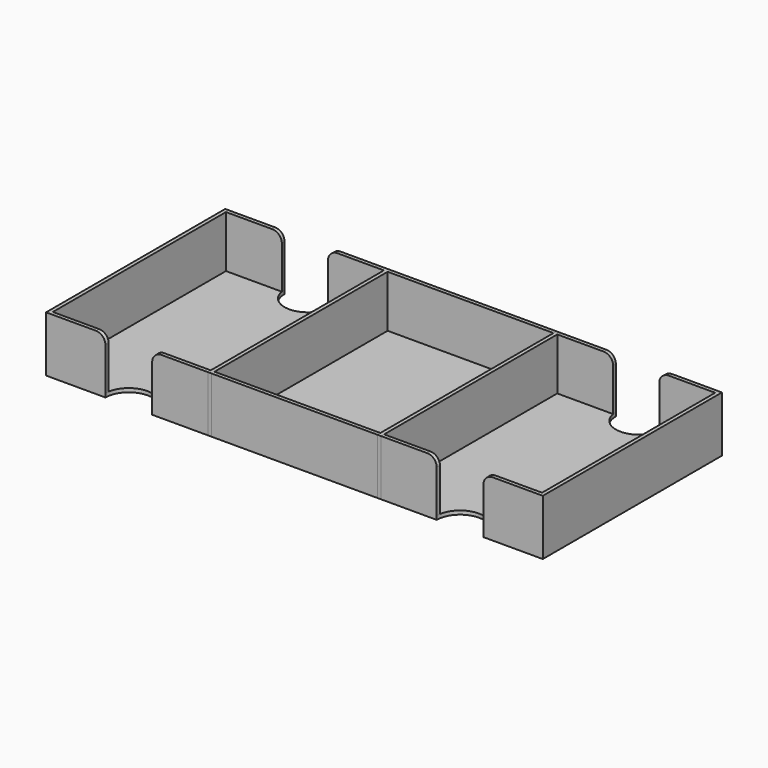
from build123d import *

# Parameters (mm, degrees)
SKETCH013_W          = 70.9
SKETCH013_H          = 92.5
PAD005_DEPTH         = 22.2
THICKNESS005_T       = 1.6
SKETCH011_W          = 67.5
SKETCH011_H          = 92.5
PAD004_DEPTH         = 22.2
THICKNESS004_T       = 1.6
SKETCH012_R          = 10
POCKET007_DEPTH      = 22.201
POCKET007_DEPTH_BACK = 1.601
FILLET013_R          = 4
SKETCH009_W          = 67.5
SKETCH009_H          = 92.5
PAD003_DEPTH         = 22.2
THICKNESS003_T       = 1.6
SKETCH010_R          = 10
POCKET006_DEPTH      = 22.201
POCKET006_DEPTH_BACK = 1.601
FILLET005_R          = 4


with BuildPart() as piecestray:
    # Sketch013 → Pad005 (new body)
    with BuildSketch(Plane.XY):
        Rectangle(SKETCH013_W, SKETCH013_H)
    extrude(amount=PAD005_DEPTH)

    # Thickness005
    thickness005_openings = [piecestray.faces().sort_by_distance(p)[0] for p in [
        (0, 0, 22.2),
    ]]
    offset(amount=THICKNESS005_T, openings=thickness005_openings, kind=Kind.INTERSECTION)


with BuildPart() as piecestray_1:
    # Body005 placement: moved
    add(piecestray.part.moved(Location((70.8, 0, 0))))


with BuildPart() as obj1:
    # Sketch011 → Pad004 (new body)
    with BuildSketch(Plane.XY):
        Rectangle(SKETCH011_W, SKETCH011_H)
    extrude(amount=PAD004_DEPTH)

    # Thickness004
    thickness004_openings = [obj1.faces().sort_by_distance(p)[0] for p in [
        (0, 0, 22.2),
    ]]
    offset(amount=THICKNESS004_T, openings=thickness004_openings, kind=Kind.INTERSECTION)

    # Sketch012 → Pocket007 (cut, two sides)
    with BuildSketch(Plane.XY) as pocket007_sk:
        with Locations((0, -47.85)):
            Circle(SKETCH012_R)
        with Locations((0, 47.85)):
            Circle(SKETCH012_R)
    extrude(amount=POCKET007_DEPTH, mode=Mode.SUBTRACT)
    extrude(pocket007_sk.sketch, amount=-POCKET007_DEPTH_BACK, mode=Mode.SUBTRACT)

    # Fillet013
    fillet013_edges = [obj1.edges().sort_by_distance(p)[0] for p in [
        (9.967741, 47.047411, 22.2),
        (-9.967741, 47.047411, 22.2),
        (-9.967741, -47.047411, 22.2),
        (9.967741, -47.047411, 22.2),
    ]]
    fillet(fillet013_edges, radius=FILLET013_R)


with BuildPart() as obj1_1:
    # Body004 placement: moved
    add(obj1.part.moved(Location((141.6, 0, 0))))


with BuildPart() as obj2:
    # Sketch009 → Pad003 (new body)
    with BuildSketch(Plane.XY):
        Rectangle(SKETCH009_W, SKETCH009_H)
    extrude(amount=PAD003_DEPTH)

    # Thickness003
    thickness003_openings = [obj2.faces().sort_by_distance(p)[0] for p in [
        (0, 0, 22.2),
    ]]
    offset(amount=THICKNESS003_T, openings=thickness003_openings, kind=Kind.INTERSECTION)

    # Sketch010 → Pocket006 (cut, two sides)
    with BuildSketch(Plane.XY) as pocket006_sk:
        with Locations((0, -47.85)):
            Circle(SKETCH010_R)
        with Locations((0, 47.85)):
            Circle(SKETCH010_R)
    extrude(amount=POCKET006_DEPTH, mode=Mode.SUBTRACT)
    extrude(pocket006_sk.sketch, amount=-POCKET006_DEPTH_BACK, mode=Mode.SUBTRACT)

    # Fillet005
    fillet005_edges = [obj2.edges().sort_by_distance(p)[0] for p in [
        (-9.967741, 47.047411, 22.2),
        (-9.967741, -47.047411, 22.2),
        (9.967741, 47.047411, 22.2),
        (9.967741, -47.047411, 22.2),
    ]]
    fillet(fillet005_edges, radius=FILLET005_R)

    # Boolean001: union PiecesTray, obj1
    add(piecestray_1.part)
    add(obj1_1.part)


solid = obj2.part
